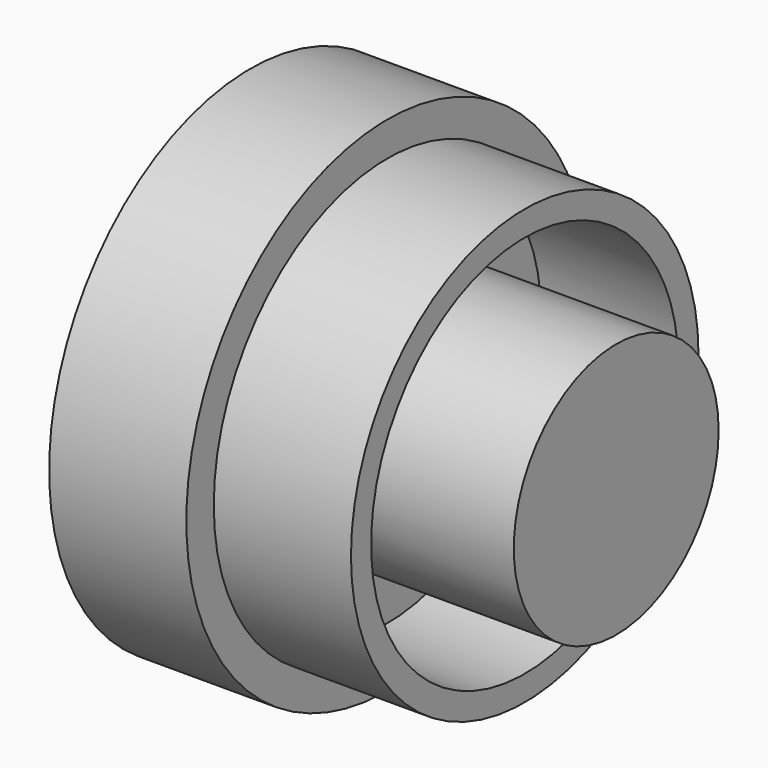
from build123d import *

# Parameters (mm, degrees)
F0_R     = 5.5
F1_DEPTH = 3
F2_R     = 2.8
F3_DEPTH = 5
F2_R_2   = 4.75
F2_R_3   = 4.2
F4_DEPTH = 3


with BuildPart() as f1:
    # F0 (on Right) → F1 (new body)
    with BuildSketch(Plane.YZ):
        Circle(F0_R)
    extrude(amount=F1_DEPTH)

    # F2 (on face) → F3 (join)
    with BuildSketch(Plane.YZ.offset(3)):
        Circle(F2_R)
    extrude(amount=F3_DEPTH)

    # F2 (on face) → F4 (join)
    with BuildSketch(Plane.YZ.offset(3)):
        Circle(F2_R_2)
        Circle(F2_R_3, mode=Mode.SUBTRACT)
    extrude(amount=F4_DEPTH)


solid = f1.part
